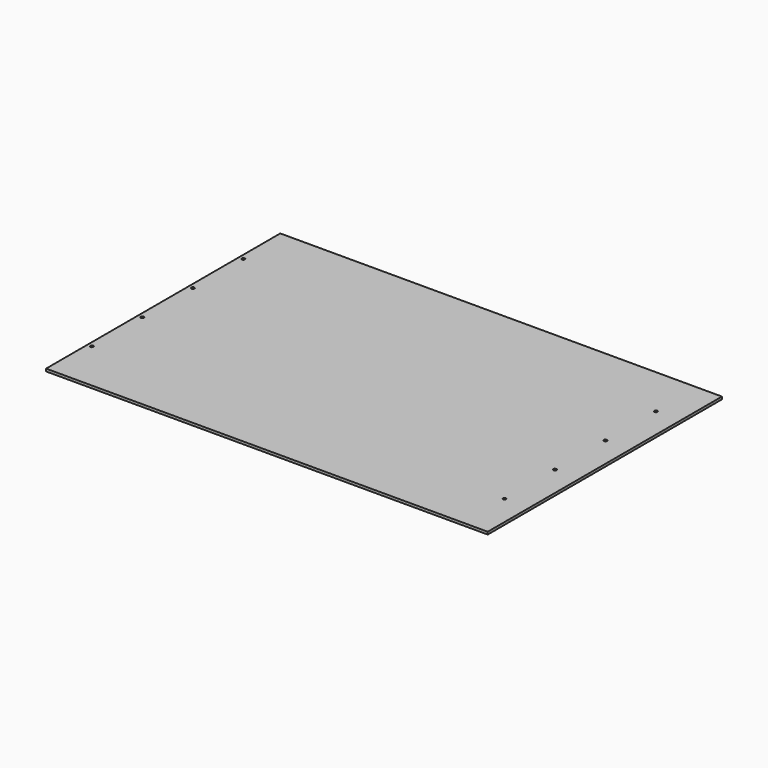
from build123d import *

# Parameters (mm, degrees)
F0_W     = 350
F0_H     = 232
F1_DEPTH = 2
F3_D     = 2.5


with BuildPart() as f1:
    # F0 (on Top) → F1 (new body)
    with BuildSketch(Plane.XY):
        with Locations((175, 116)):
            Rectangle(F0_W, F0_H)
    extrude(amount=F1_DEPTH)

    # F3 (through all)
    with Locations(Plane(origin=(0, 0, 0), x_dir=(1, 0, 0), z_dir=(0, 0, -1))):
        with Locations((330.5, -191), (330.5, -141), (330.5, -91), (330.5, -41), (3.5, -191), (3.5, -141), (3.5, -91), (3.5, -41)):
            Hole(F3_D / 2)


solid = f1.part
